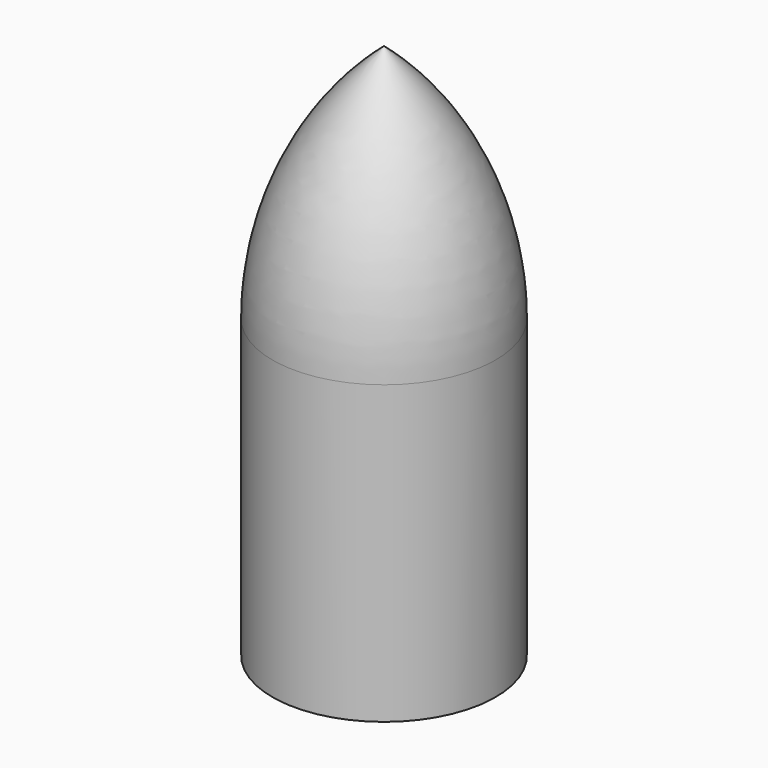
from build123d import *


with BuildPart() as f1:
    # F0 (on Right) → F1 (revolve)
    with BuildSketch(Plane.YZ):
        with BuildLine():
            Line((9.5, 62), (9.5, 0))
            Line((9.5, 0), (17.3302528936, 0))
            Line((17.3302528936, 0), (17.3302528936, 46.0920543925))
            ThreePointArc((17.3302528936, 46.0920543925), (12.7861362137, 66.656256619), (0, 83.3909550129))
            Line((0, 83.3909550129), (0, 62))
            Line((0, 62), (9.5, 62))
        make_face()
    revolve(axis=Axis((0, 0, 60.8909550129), (0, 0, 1)))


solid = f1.part
